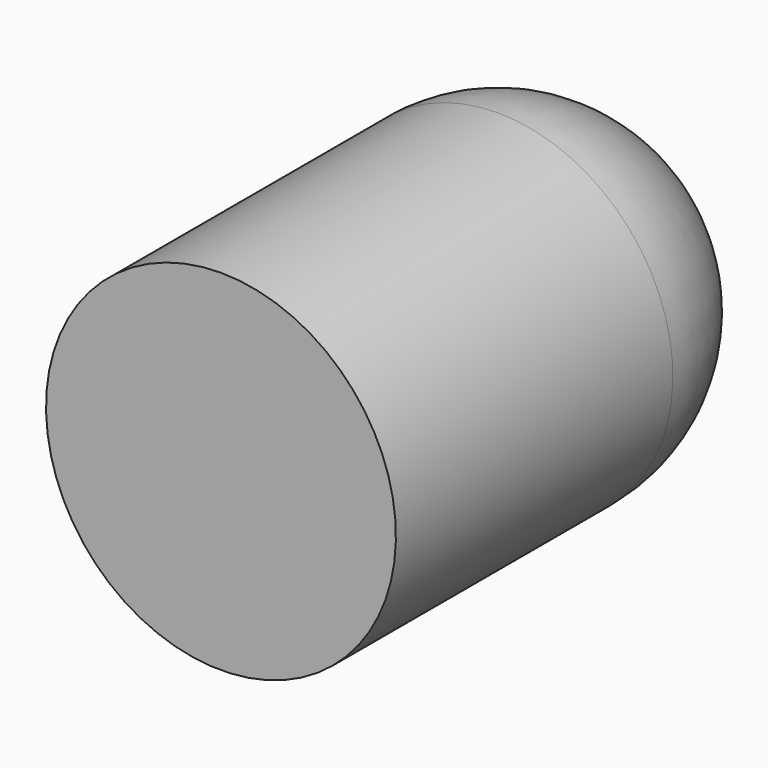
from build123d import *


with BuildPart() as f1:
    # F0 (on Right) → F1 (revolve)
    with BuildSketch(Plane.YZ):
        with BuildLine():
            Line((0, 1.1938), (0, 0))
            Line((0, 0), (3.556, 0))
            ThreePointArc((3.556, 0), (3.206344, 0.844144), (2.3622, 1.1938))
            Line((2.3622, 1.1938), (0, 1.1938))
        make_face()
    revolve(axis=Axis((0, 1.778, 0), (0, 1, 0)))


solid = f1.part
